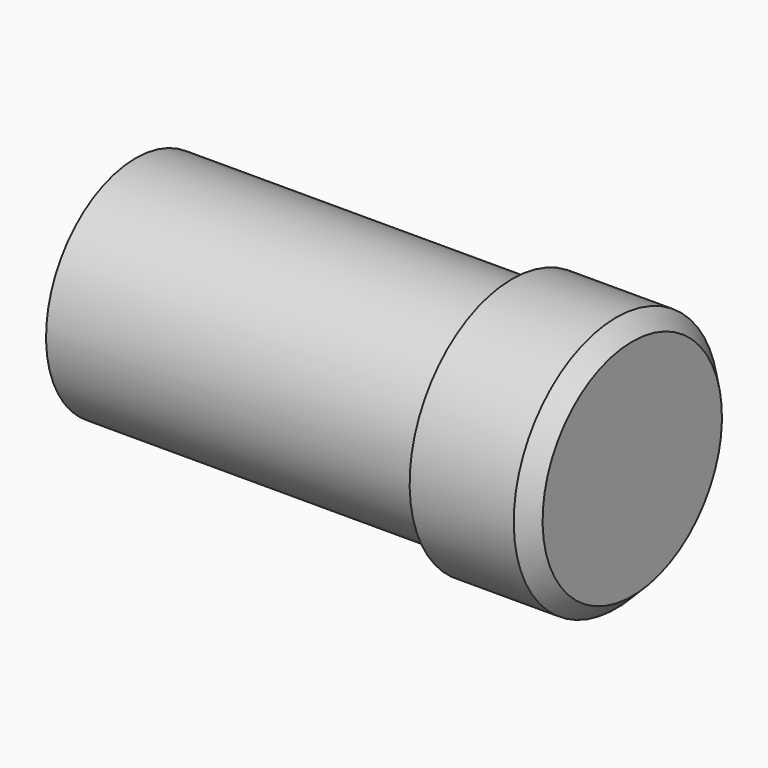
from build123d import *

# Parameters (mm, degrees)
CHAMFER_SIZE = 0.2


with BuildPart() as part:
    # Sketch → Revolution (revolve)
    with BuildSketch(Plane.XZ):
        Polygon((6.2, 0), (6.2, 1.6), (4.7, 1.6), (4.7, 1.4), (0, 1.4), (0, 0), align=None)
    revolve(axis=Axis((0, 0, 0), (1, 0, 0)))

    # Chamfer
    chamfer_edges = [part.edges().sort_by_distance(p)[0] for p in [
        (6.2, 0, -1.6),
    ]]
    chamfer(chamfer_edges, length=CHAMFER_SIZE)


solid = part.part
